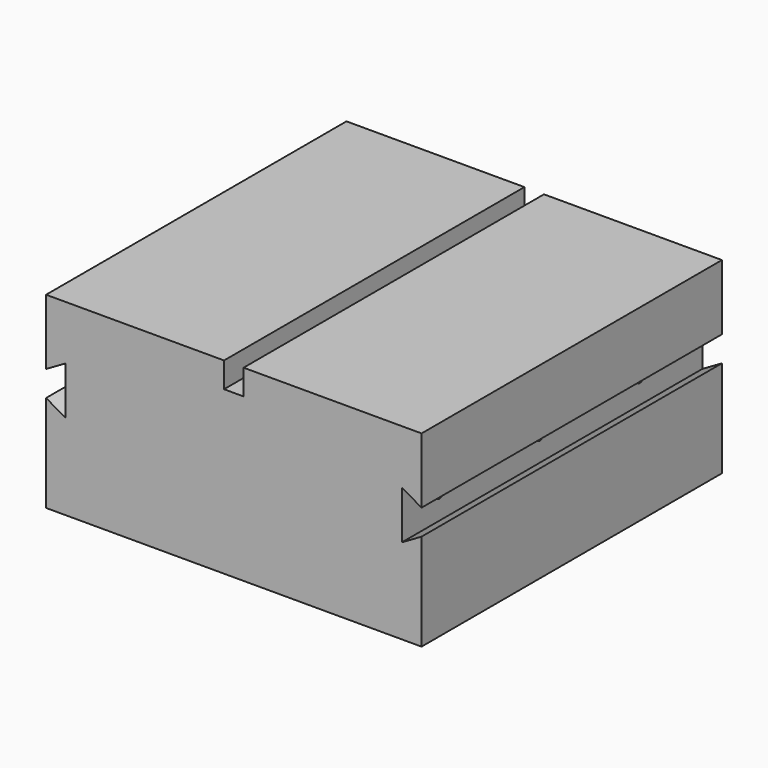
from build123d import *

# Parameters (mm, degrees)
F1_DEPTH = 304.8
F4_D     = 7.62
F4_DEPTH = 30.48
F4_TIP   = 2.2892789585
F5_D     = 7.62
F5_DEPTH = 30.48
F5_TIP   = 2.2892789585


with BuildPart() as f1:
    # F0 (on Front) → F1 (new body)
    with BuildSketch(Plane.XZ):
        Polygon((-39.024540448, 51.035306699), (-183.487040448, 51.035306699), (-183.487040448, -2.050693301), (-167.612040448, 7.1147422224), (-167.612040448, -31.9171288244), (-183.487040448, -22.751693301), (-183.487040448, -101.364693301), (-31.087040448, -101.364693301), (-31.087040448, 30.461306699), (-39.024540448, 30.461306699), align=None)
        Polygon((-23.149540448, 30.461306699), (-31.087040448, 30.461306699), (-31.087040448, -101.364693301), (121.312959552, -101.364693301), (121.312959552, -22.751693301), (105.437959552, -31.9171288244), (105.437959552, 7.1147422224), (121.312959552, -2.050693301), (121.312959552, 51.035306699), (-23.149540448, 51.035306699), align=None)
    extrude(amount=F1_DEPTH)

    # F4
    with Locations(Plane.YZ.offset(105.437959552)):
        with Locations((-63.5, -12.401193301), (-165.1, -12.401193301), (-266.7, -12.401193301)):
            Hole(F4_D / 2, depth=F4_DEPTH)
            with Locations((0, 0, -(F4_DEPTH + F4_TIP / 2))):  # 118° drill point
                Cone(0, F4_D / 2, F4_TIP, mode=Mode.SUBTRACT)

    # F5
    with Locations(Plane(origin=(-167.612040448, 0, 0), x_dir=(0, -1, 0), z_dir=(-1, 0, 0))):
        with Locations((63.5, -12.401193301), (165.1, -12.401193301), (266.7, -12.401193301)):
            Hole(F5_D / 2, depth=F5_DEPTH)
            with Locations((0, 0, -(F5_DEPTH + F5_TIP / 2))):  # 118° drill point
                Cone(0, F5_D / 2, F5_TIP, mode=Mode.SUBTRACT)


solid = f1.part
